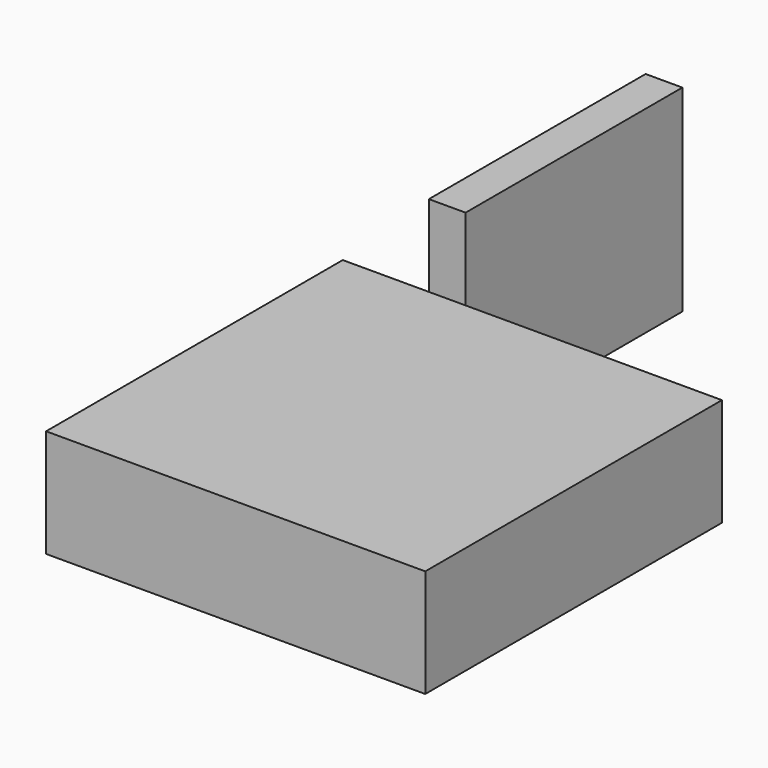
from build123d import *

# Parameters (mm, degrees)
F0_W     = 89.19398
F0_H     = 87.227009
F1_DEPTH = 25.4
F2_W     = 63.7346
F2_H     = 46.390337
F3_DEPTH = 8.636


with BuildPart() as f1:
    # F0 (on Top) → F1 (new body)
    with BuildSketch(Plane.XY):
        with Locations((17.520423, -68.708483)):
            Rectangle(F0_W, F0_H)
    extrude(amount=F1_DEPTH)


with BuildPart() as f3:
    # F2 (on Right) → F3 (new body)
    with BuildSketch(Plane.YZ):
        with Locations((9.045969, 19.900021)):
            Rectangle(F2_W, F2_H)
    extrude(amount=-F3_DEPTH)


solid = Compound([f1.part, f3.part])
